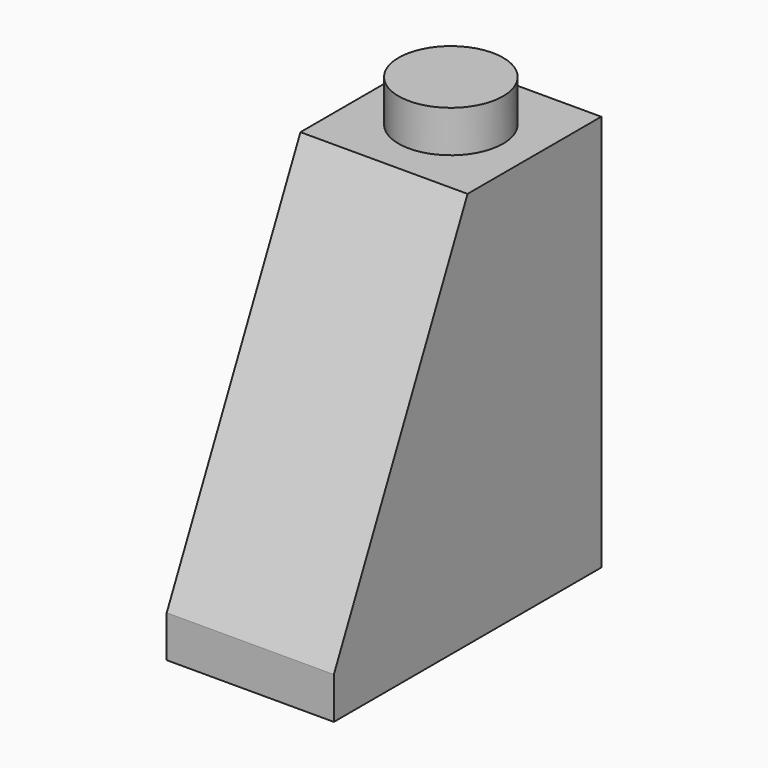
from build123d import *

# Parameters (mm, degrees)
F1_DEPTH = 4
F3_DEPTH = 2.5
F5_R     = 2.5
F6_DEPTH = 2
F7_R     = 1.25
F8_DEPTH = 20


with BuildPart() as f1:
    # F0 (on Right) → F1 (new body)
    with BuildSketch(Plane.YZ):
        Polygon((0, 2), (0, 0), (16, 0), (16, 19), (8, 19), align=None)
    extrude(amount=F1_DEPTH)

    # F2 (on face) → F3 (cut)
    with BuildSketch(Plane.YZ.offset(4)):
        Polygon((14.5, 0), (14.5, 17.5), (8.951908, 17.5), (1.5, 1.664695), (1.5, 0), align=None)
    extrude(amount=-F3_DEPTH, mode=Mode.SUBTRACT)

    # F4: F1 across face


with BuildPart() as f1_1:
    add(f1.part)
    add(f1.part.mirror(Plane(origin=(4, 9.86239, 10.544939), x_dir=(0, 1, 0), z_dir=(1, 0, 0))))

    # F5 (on face) → F6 (join)
    with BuildSketch(Plane.XY.offset(19)):
        with Locations((4, 12)):
            Circle(F5_R)
    extrude(amount=F6_DEPTH)

    # F7 (on face) → F8 (cut)
    with BuildSketch(Plane(origin=(0, 0, 0), x_dir=(1, 0, 0), z_dir=(0, 0, -1))):
        with Locations((4, -12)):
            Circle(F7_R)
    extrude(amount=-F8_DEPTH, mode=Mode.SUBTRACT)


solid = f1_1.part
